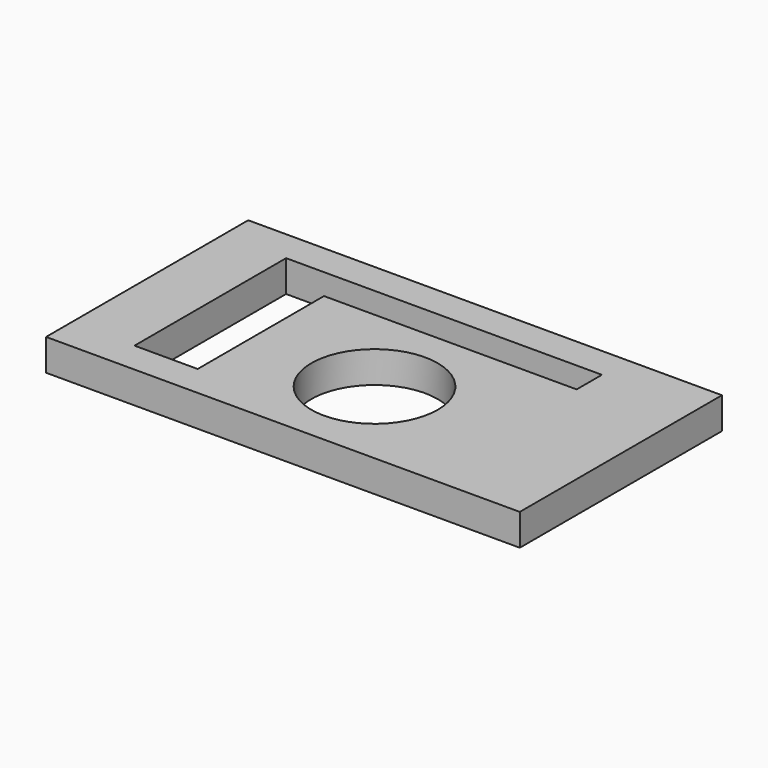
from build123d import *

# Parameters (mm, degrees)
F0_W     = 190.5
F0_H     = 101.6
F0_R     = 25.4
F1_DEPTH = 12.7


with BuildPart() as f1:
    # F0 (on Top) → F1 (new body)
    with BuildSketch(Plane.XY):
        with Locations((-6.35, 12.7)):
            Rectangle(F0_W, F0_H)
        Polygon((-76.2, -25.4), (-76.2, 50.8), (-50.8, 50.8), (50.8, 50.8), (50.8, 38.1), (-50.8, 38.1), (-50.8, -25.4), align=None, mode=Mode.SUBTRACT)
        Circle(F0_R, mode=Mode.SUBTRACT)
    extrude(amount=F1_DEPTH)


solid = f1.part
